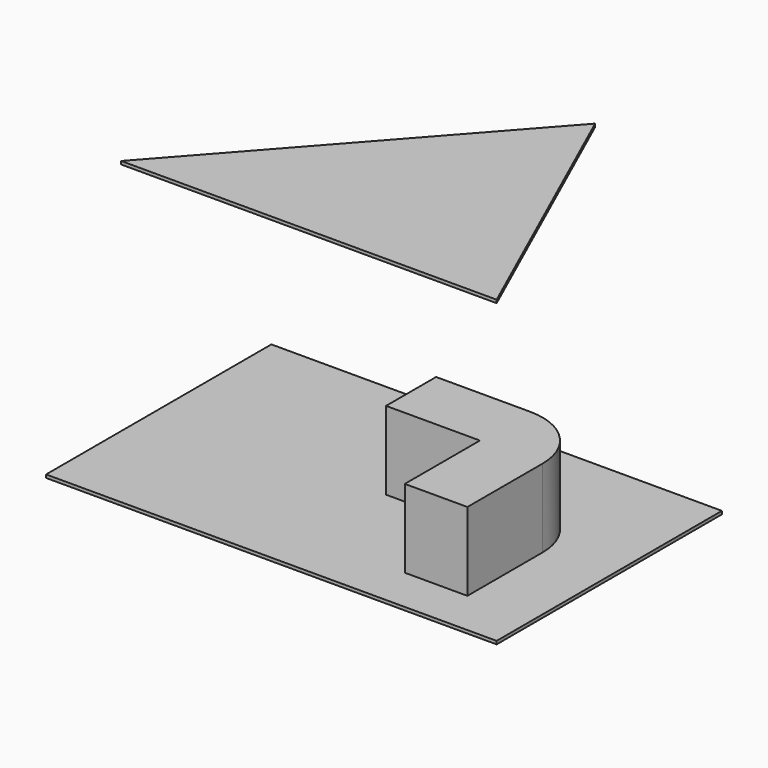
from build123d import *

# Parameters (mm, degrees)
F0_W     = 3657.6
F0_H     = 2286
F1_DEPTH = 25.4
F4_DEPTH = 635
F7_DEPTH = 25.4


with BuildPart() as f1:
    # F0 (on Top) → F1 (new body)
    with BuildSketch(Plane.XY):
        with Locations((-104.956031, -7.845942)):
            Rectangle(F0_W, F0_H)
    extrude(amount=F1_DEPTH)

    # F2 (on face) → F4 (join)
    with BuildSketch(Plane.XY.offset(25.4)):
        with BuildLine():
            Line((1193.10219, -784.155136), (1193.10219, -22.155136))
            ThreePointArc((1193.10219, -22.155136), (1044.312435, 337.055109), (685.10219, 485.844864))
            Line((685.10219, 485.844864), (-76.89781, 485.844864))
            Line((-76.89781, 485.844864), (-76.89781, -22.155136))
            Line((-76.89781, -22.155136), (685.10219, -22.155136))
            Line((685.10219, -22.155136), (685.10219, -784.155136))
            Line((685.10219, -784.155136), (1193.10219, -784.155136))
        make_face()
    extrude(amount=F4_DEPTH)


with BuildPart() as f7:
    # F6 (on offset) → F7 (new body)
    with BuildSketch(Plane.XY.offset(2438.4)):
        Polygon((-1324.156031, -1150.845942), (1723.843969, -1150.845942), (701.519705, 1126.639911), align=None)
    extrude(amount=F7_DEPTH)


solid = Compound([f1.part, f7.part])
